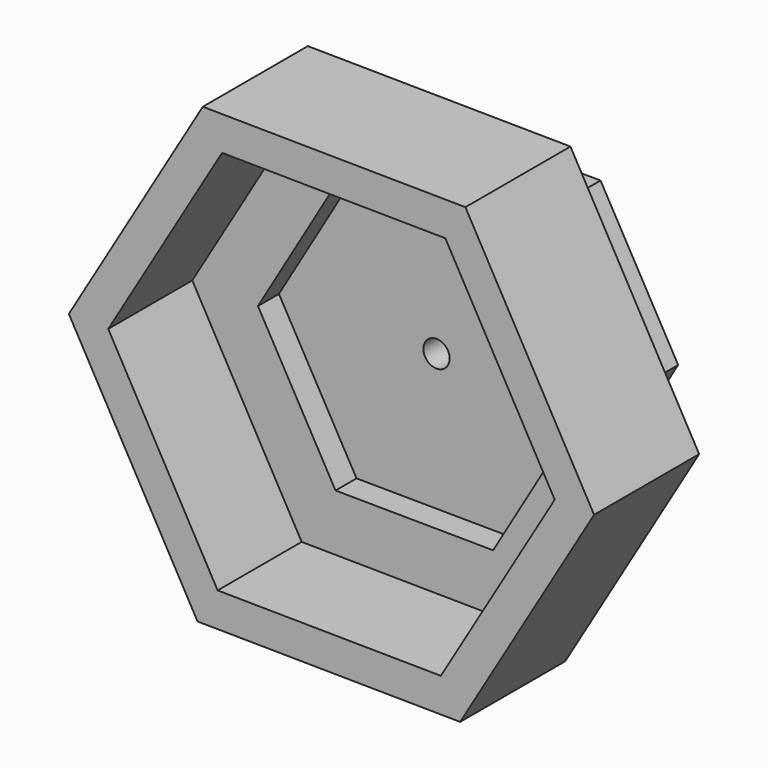
from build123d import *

# Parameters (mm, degrees)
F1_DEPTH = 5
F2_DEPTH = 1
F0_R     = 0.5
F3_DEPTH = 4


with BuildPart() as f1:
    # F0 (on Front) → F1 (new body)
    with BuildSketch(Plane.XZ):
        Polygon((-42.821645, 21.0013), (-37.722063, 29.603292), (-42.621815, 38.320655), (-52.621149, 38.436027), (-57.720732, 29.834036), (-52.820979, 21.116672), align=None)
        Polygon((-43.386464, 37.030843), (-39.221397, 29.620591), (-43.556331, 22.308411), (-52.056331, 22.406484), (-56.221397, 29.816736), (-51.886464, 37.128916), align=None, mode=Mode.SUBTRACT)
    extrude(amount=F1_DEPTH)

    # F0 (on Front) → F2 (join)
    with BuildSketch(Plane.XZ):
        Polygon((-43.556331, 22.308411), (-39.221397, 29.620591), (-43.386464, 37.030843), (-51.886464, 37.128916), (-56.221397, 29.816736), (-52.056331, 22.406484), align=None)
        Polygon((-44.675878, 34.888535), (-41.721397, 29.666102), (-44.766917, 24.49623), (-50.766917, 24.548792), (-53.721397, 29.771225), (-50.675878, 34.941097), align=None, mode=Mode.SUBTRACT)
    extrude(amount=F2_DEPTH)


with BuildPart() as f3:
    # F0 (on Front) → F3 (new body)
    with BuildSketch(Plane.XZ):
        Polygon((-44.766917, 24.49623), (-41.721397, 29.666102), (-44.675878, 34.888535), (-50.675878, 34.941097), (-53.721397, 29.771225), (-50.766917, 24.548792), align=None)
        with Locations((-47.721397, 29.718664)):
            Circle(F0_R, mode=Mode.SUBTRACT)
    extrude(amount=-F3_DEPTH)


solid = Compound([f1.part, f3.part])
